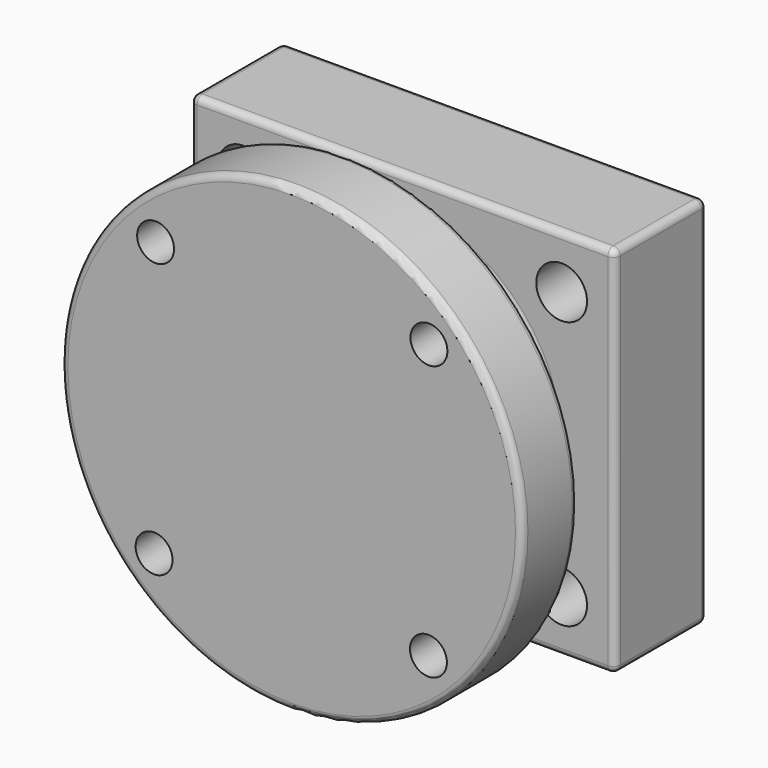
from build123d import *

# Parameters (mm, degrees)
F0_W      = 92
F0_H      = 81
F0_R      = 5.5
F1_DEPTH  = 25
F2_R      = 33
F4_R      = 33
F6_R      = 33
F7_DEPTH  = 55
F9_R      = 17.5
F8_R      = 16
F11_R     = 50
F12_DEPTH = 15
F13_R     = 4
F14_DEPTH = 25
F15_R     = 1.5


with BuildPart() as f1:
    # F0 (on Front) → F1 (new body)
    with BuildSketch(Plane.XZ):
        Rectangle(F0_W, F0_H)
        with Locations((-34.5, -29)):
            Circle(F0_R, mode=Mode.SUBTRACT)
        with Locations((34.5, -29)):
            Circle(F0_R, mode=Mode.SUBTRACT)
        with Locations((-34.5, 29)):
            Circle(F0_R, mode=Mode.SUBTRACT)
        with Locations((34.5, 29)):
            Circle(F0_R, mode=Mode.SUBTRACT)
    extrude(amount=-F1_DEPTH)

    # F2 (on face) → F5 section 0
    with BuildSketch(Plane(origin=(0, 25, 0), x_dir=(-1, 0, 0), z_dir=(0, 1, 0))):
        Circle(F2_R)
    # F4 (on face) → F5 section 1
    with BuildSketch(Plane.XZ):
        Circle(F4_R)
    loft(mode=Mode.SUBTRACT)

    # F6 (on face) → F7 (join)
    with BuildSketch(Plane(origin=(0, 25, 0), x_dir=(-1, 0, 0), z_dir=(0, 1, 0))):
        Circle(F6_R)
    extrude(amount=-F7_DEPTH)

    # F9 (on face) → F10 section 0
    with BuildSketch(Plane(origin=(0, 25, 0), x_dir=(-1, 0, 0), z_dir=(0, 1, 0))):
        Circle(F9_R)
    # F8 (on face) → F10 section 1
    with BuildSketch(Plane.XZ.offset(30)):
        Circle(F8_R)
    loft(mode=Mode.SUBTRACT)

    # F11 (on face) → F12 (join)
    with BuildSketch(Plane.XZ.offset(30)):
        Circle(F11_R)
    extrude(amount=-F12_DEPTH)

    # F13 (on face) → F14 (cut)
    with BuildSketch(Plane.XZ.offset(30)):
        with Locations((-29.4978397312, 29.8977833826)):
            Circle(F13_R)
        with Locations((29.7333216446, 29.6636070628)):
            Circle(F13_R)
        with Locations((-29.831010619, -29.5653649639)):
            Circle(F13_R)
        with Locations((29.6283578673, -29.7684465515)):
            Circle(F13_R)
    extrude(amount=-F14_DEPTH, mode=Mode.SUBTRACT)

    # F15
    f15_edges = [f1.edges().sort_by_distance(p)[0] for p in [
        (46, 25, 0),
        (0, 25, 40.5),
        (46, 12.5, 40.5),
        (46, 0, 0),
        (0, 0, 40.5),
        (46, 12.5, -40.5),
        (-46, 12.5, 40.5),
        (-46, 25, 0),
        (-46, 0, 0),
        (-46, 12.5, -40.5),
        (-50, -30, 0),
        (-50, -15, 0),
        (0, 0, -40.5),
        (0, 25, -40.5),
        (33, 0, 0),
        (17.5, 25, 0),
    ]]
    fillet(f15_edges, radius=F15_R)


solid = f1.part
